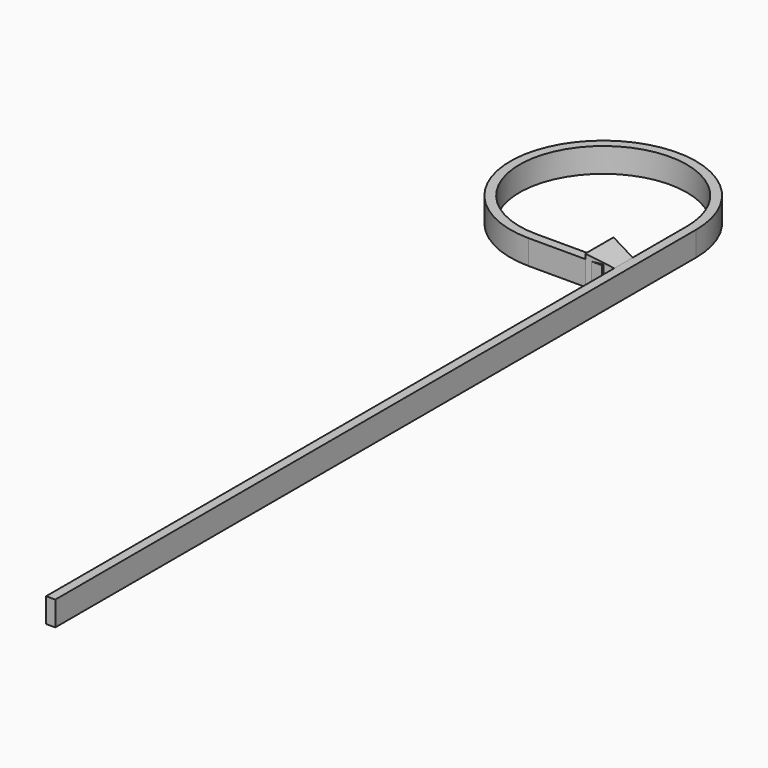
from build123d import *

# Parameters (mm, degrees)
F5_W = 0.79375
F5_H = 0.79375
F6_W = 1.524
F6_H = 1.524
F2_W = 0.396875
F2_H = 1.0583333333


with BuildPart() as f7:
    # F5 (on offset) → F7 section 0
    with BuildSketch(Plane.YZ.offset(0.1984375)):
        with Locations((5.7742870632, 0)):
            Rectangle(F5_W, F5_H)
    # F6 (on offset) → F7 section 1
    with BuildSketch(Plane.YZ.offset(-1.34874)):
        with Locations((5.9065787299, 0)):
            Rectangle(F6_W, F6_H)
    loft()

    # F8: sweep along a path in F0
    with BuildLine(Plane.XY) as f8_path:
        Line((0, -25.4), (0, 9.187384317))
        ThreePointArc((0, 9.187384317), (-6.4989310813, 11.8865970985), (-3.8245404934, 5.3774120632))
        Line((-3.8245404934, 5.3774120632), (-0.6495404934, 5.3774120632))
    # F2 (on offset) → F8 (sweep)
    with BuildSketch(Plane.XZ.offset(25.4)):
        Rectangle(F2_W, F2_H)
    sweep(path=f8_path.line)


solid = f7.part
